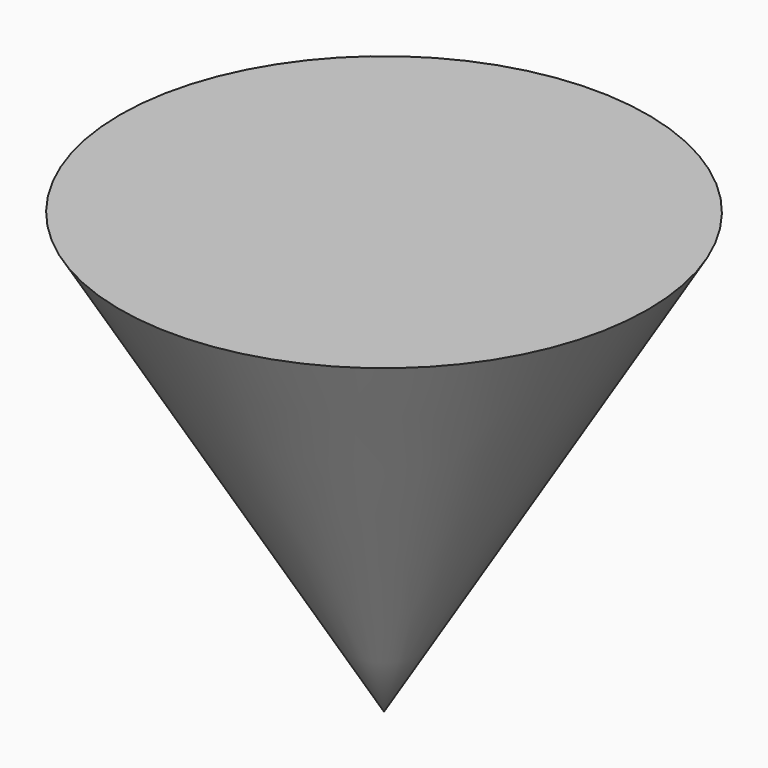
from build123d import *


with BuildPart() as part:
    # Sketch → Revolution (revolve)
    with BuildSketch(Plane.XZ):
        Polygon((-15, 0), (0, 0), (0, -25), align=None)
    revolve(axis=Axis((0, 0, 0), (0, 0, 1)))


solid = part.part
